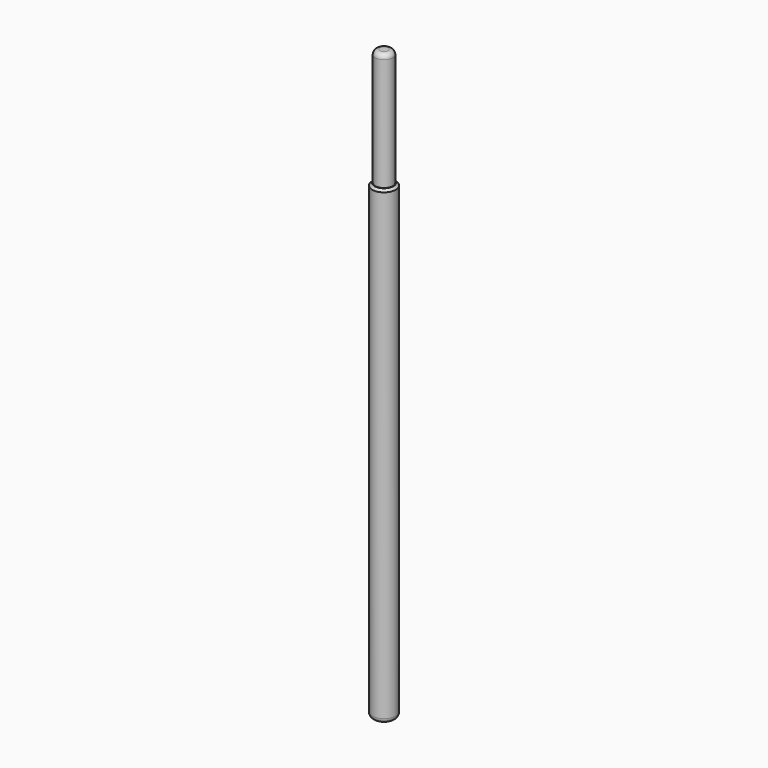
from build123d import *

# Parameters (mm, degrees)
F0_R     = 0.5
F0_R_2   = 0.375
F1_DEPTH = 20
F2_R     = 0.375
F3_DEPTH = 5
F4_R     = 0.2
F5_SIZE  = 0.1
F6_DEPTH = 2
F7_R     = 0.2


with BuildPart() as f1:
    # F0 (on Top) → F1 (new body)
    with BuildSketch(Plane.XY):
        Circle(F0_R)
        Circle(F0_R_2, mode=Mode.SUBTRACT)
    extrude(amount=F1_DEPTH)

    # F5
    f5_edges = [f1.edges().sort_by_distance(p)[0] for p in [
        (-0.5, 0, 20),
    ]]
    chamfer(f5_edges, length=F5_SIZE)

    # F0 (on Top) → F6 (join)
    with BuildSketch(Plane.XY):
        Circle(F0_R_2)
    extrude(amount=F6_DEPTH)

    # F7
    f7_edges = [f1.edges().sort_by_distance(p)[0] for p in [
        (-0.5, 0, 0),
    ]]
    fillet(f7_edges, radius=F7_R)


with BuildPart() as f3:
    # F2 (on face) → F3 (new body, symmetric)
    with BuildSketch(Plane.XY.offset(20)):
        Circle(F2_R)
    extrude(amount=F3_DEPTH, both=True)

    # F4
    f4_edges = [f3.edges().sort_by_distance(p)[0] for p in [
        (-0.375, 0, 25),
    ]]
    fillet(f4_edges, radius=F4_R)


solid = Compound([f1.part, f3.part])
